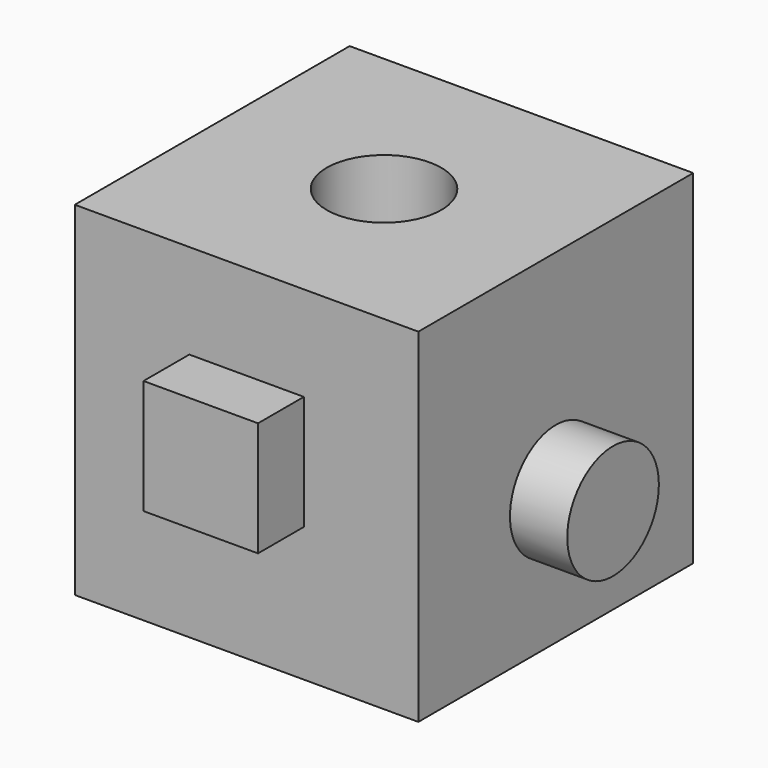
from build123d import *

# Parameters (mm, degrees)
F0_W      = 76.2
F0_H      = 76.2
F1_DEPTH  = 76.2
F3_D      = 25.4
F4_W      = 25.4
F4_H      = 25.4
F5_DEPTH  = 12.7
F6_R      = 12.7
F7_DEPTH  = 12.7
F5_FACE_W = 25.4
F5_FACE_H = 25.4
F9_DEPTH  = 12.7


with BuildPart() as f1:
    # F0 (on Front) → F1 (new body)
    with BuildSketch(Plane.XZ):
        with Locations((3.7895068526, 8.292155078)):
            Rectangle(F0_W, F0_H)
    extrude(amount=F1_DEPTH)

    # F3 (through all)
    with Locations(Plane.XY.offset(46.392155078)):
        with Locations((3.7895068526, -38.1)):
            Hole(F3_D / 2)

    # F4 (on face) → F5 (join)
    with BuildSketch(Plane.XZ.offset(76.2)):
        with Locations((3.7895068526, 12.7)):
            Rectangle(F4_W, F4_H)
    extrude(amount=F5_DEPTH)

    # F6 (on face) → F7 (join)
    with BuildSketch(Plane.YZ.offset(41.8895068526)):
        with Locations((-38.1, 0)):
            Circle(F6_R)
    extrude(amount=F7_DEPTH)

    # F8 (on face) + F5_face (on face) → F9 (join)
    with BuildSketch(Plane(origin=(0, 0, 0), x_dir=(-1, 0, 0), z_dir=(0, 1, 0))):
        Polygon((-17.3972853364, 0), (8.0027146636, 0), (-4.6972853364, 21.9970452561), align=None)
    with BuildSketch(Plane(origin=(3.7895068526, -88.9, 12.7), x_dir=(1, 0, 0), z_dir=(0, -1, 0))):
        Rectangle(F5_FACE_W, F5_FACE_H)
    extrude(amount=F9_DEPTH, dir=(0, 1, 0))


solid = f1.part
